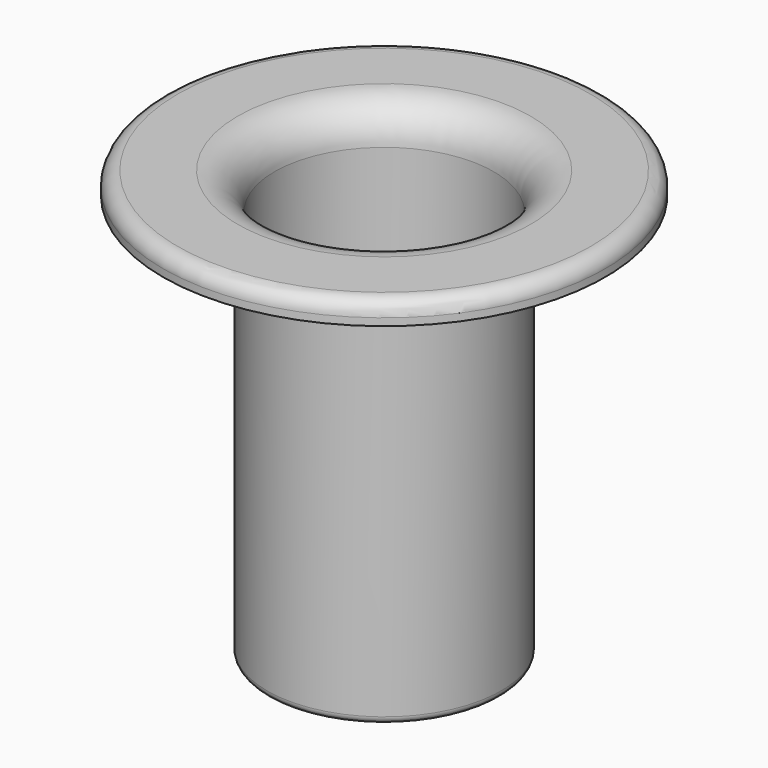
from build123d import *

# Parameters (mm, degrees)
F0_W   = 14.125
F0_H   = 3
F0_W_2 = 9.875
F0_H_2 = 2
F0_W_3 = 1
F2_R   = 1
F3_R   = 5
F4_R   = 2


with BuildPart() as f1:
    # F0 (on Front) → F1 (revolve)
    with BuildSketch(Plane.XZ):
        Polygon((-14.875, -9.095676), (-14.875, 34.029324), (-15.875, 34.029324), (-15.875, -20.970676), (-14.875, -20.970676), (-14.875, -18.970676), align=None)
        with Locations((-22.9375, 35.529324)):
            Rectangle(F0_W, F0_H)
        with Locations((-9.9375, -19.970676)):
            Rectangle(F0_W_2, F0_H_2)
        with Locations((-15.375, 35.529324)):
            Rectangle(F0_W_3, F0_H)
        with BuildLine():
            ThreePointArc((-5, -18.970676), (-11.982679, -16.078356), (-14.875, -9.095676))
            Line((-14.875, -9.095676), (-14.875, -18.970676))
            Line((-14.875, -18.970676), (-5, -18.970676))
        make_face()
    revolve(axis=Axis((0, 0, 3.538087), (0, 0, -1)))

    # F2
    f2_edges = [f1.edges().sort_by_distance(p)[0] for p in [
        (5, 0, -20.970676),
        (5, 0, -18.970676),
        (15.875, 0, -20.970676),
    ]]
    fillet(f2_edges, radius=F2_R)

    # F3
    f3_edges = [f1.edges().sort_by_distance(p)[0] for p in [
        (14.875, 0, 37.029324),
    ]]
    fillet(f3_edges, radius=F3_R)

    # F4
    f4_edges = [f1.edges().sort_by_distance(p)[0] for p in [
        (30, 0, 37.029324),
    ]]
    fillet(f4_edges, radius=F4_R)


solid = f1.part
